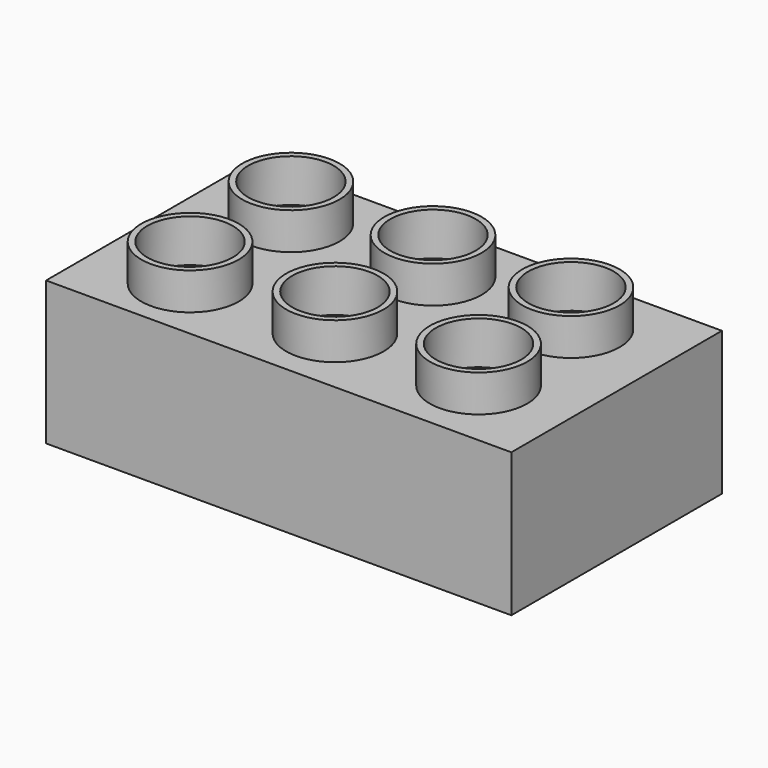
from build123d import *

# Parameters (mm, degrees)
F0_W     = 198.4809562564
F0_H     = 112.2947335243
F1_DEPTH = 39.878
F2_R     = 20.7776097732
F3_DEPTH = 15.748
F4_W     = 198.4809562564
F4_H     = 112.2947335243
F4_R     = 20.7776097732
F5_DEPTH = 21.336
F6_ANGLE = 180
F7_T     = -2.54


with BuildPart() as f1:
    # F0 (on Top) → F1 (new body)
    with BuildSketch(Plane.XY):
        with Locations((0.2176724374, -0.7018409669)):
            Rectangle(F0_W, F0_H)
    extrude(amount=F1_DEPTH)

    # F2 (on face) → F3 (join)
    with BuildSketch(Plane(origin=(0, 0, 0), x_dir=(1, 0, 0), z_dir=(0, 0, -1))):
        with Locations((-61.0377900302, 27.6237465441)):
            Circle(F2_R)
        with Locations((-60.1607970893, -27.2515378892)):
            Circle(F2_R)
        with Locations((0, -25.1830536872)):
            Circle(F2_R)
        with Locations((0, 27.1037101871)):
            Circle(F2_R)
        with Locations((60.9036274254, -24.7248988599)):
            Circle(F2_R)
        with Locations((59.5011785626, 26.3048261404)):
            Circle(F2_R)
    extrude(amount=F3_DEPTH)

    # F4 (on face) → F5 (join)
    with BuildSketch(Plane.XY.offset(39.878)):
        with Locations((0.2176724374, -0.7018409669)):
            Rectangle(F4_W, F4_H)
        with Locations((-59.3232288957, -28.0555449426)):
            Circle(F4_R, mode=Mode.SUBTRACT)
        with Locations((0, -27.5396611542)):
            Circle(F4_R, mode=Mode.SUBTRACT)
        with Locations((60.3502318263, -27.691854164)):
            Circle(F4_R, mode=Mode.SUBTRACT)
        with Locations((-59.7541630268, 26.5966858715)):
            Circle(F4_R, mode=Mode.SUBTRACT)
        with Locations((0, 28.0189700425)):
            Circle(F4_R, mode=Mode.SUBTRACT)
        with Locations((61.206471175, 27.1779913455)):
            Circle(F4_R, mode=Mode.SUBTRACT)
    extrude(amount=F5_DEPTH)


with BuildPart() as f1_1:
    # F6: moved
    add(f1.part.rotate(Axis((0.2176724374, -56.8492077291, 61.214), (1, 0, 0)), F6_ANGLE))

    # F7
    f7_openings = [f1_1.faces().sort_by_distance(p)[0] for p in [
        (-60.160797, -140.949953, 138.176),
        (-61.03779, -86.074669, 138.176),
        (0, -86.594705, 138.176),
        (0, -138.881469, 138.176),
        (60.903627, -138.423314, 138.176),
        (59.501179, -87.393589, 138.176),
    ]]
    offset(amount=F7_T, openings=f7_openings, kind=Kind.INTERSECTION)


solid = f1_1.part
